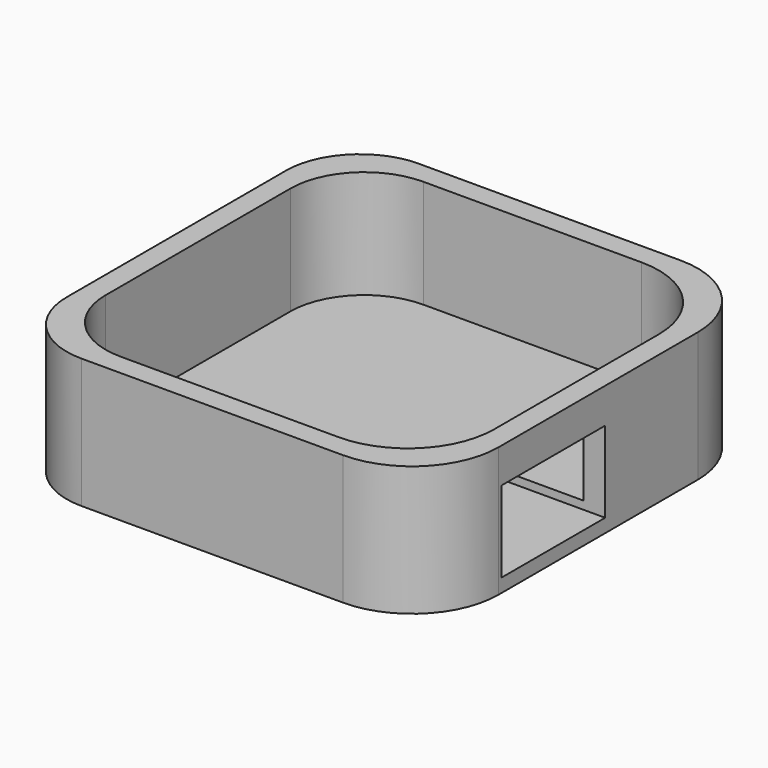
from build123d import *

# Parameters (mm, degrees)
F1_DEPTH = 12
F3_DEPTH = 10
F4_W     = 12
F4_H     = 7.5
F5_DEPTH = 10


with BuildPart() as f1:
    # F0 (on Top) → F1 (new body)
    with BuildSketch(Plane.XY):
        with BuildLine():
            Line((-12.672, -19.5), (11.5, -19.5))
            ThreePointArc((11.5, -19.5), (17.156854, -17.156854), (19.5, -11.5))
            Line((19.5, -11.5), (19.5, 11.5))
            ThreePointArc((19.5, 11.5), (17.156854, 17.156854), (11.5, 19.5))
            Line((11.5, 19.5), (-12.672, 19.5))
            ThreePointArc((-12.672, 19.5), (-17.500125, 17.500125), (-19.5, 12.672))
            Line((-19.5, 12.672), (-19.5, -12.672))
            ThreePointArc((-19.5, -12.672), (-17.500125, -17.500125), (-12.672, -19.5))
        make_face()
    extrude(amount=F1_DEPTH)

    # F2 (on face) → F3 (cut)
    with BuildSketch(Plane.XY.offset(12)):
        with BuildLine():
            Line((-10.672, -17.5), (9.5, -17.5))
            ThreePointArc((9.5, -17.5), (15.156854, -15.156854), (17.5, -9.5))
            Line((17.5, -9.5), (17.5, 9.5))
            ThreePointArc((17.5, 9.5), (15.156854, 15.156854), (9.5, 17.5))
            Line((9.5, 17.5), (-10.672, 17.5))
            ThreePointArc((-10.672, 17.5), (-15.500125, 15.500125), (-17.5, 10.672))
            Line((-17.5, 10.672), (-17.5, -10.672))
            ThreePointArc((-17.5, -10.672), (-15.500125, -15.500125), (-10.672, -17.5))
        make_face()
    extrude(amount=-F3_DEPTH, mode=Mode.SUBTRACT)

    # F4 (on face) → F5 (cut)
    with BuildSketch(Plane.YZ.offset(19.5)):
        with Locations((-5.2, 5.004)):
            Rectangle(F4_W, F4_H)
    extrude(amount=-F5_DEPTH, mode=Mode.SUBTRACT)


solid = f1.part
